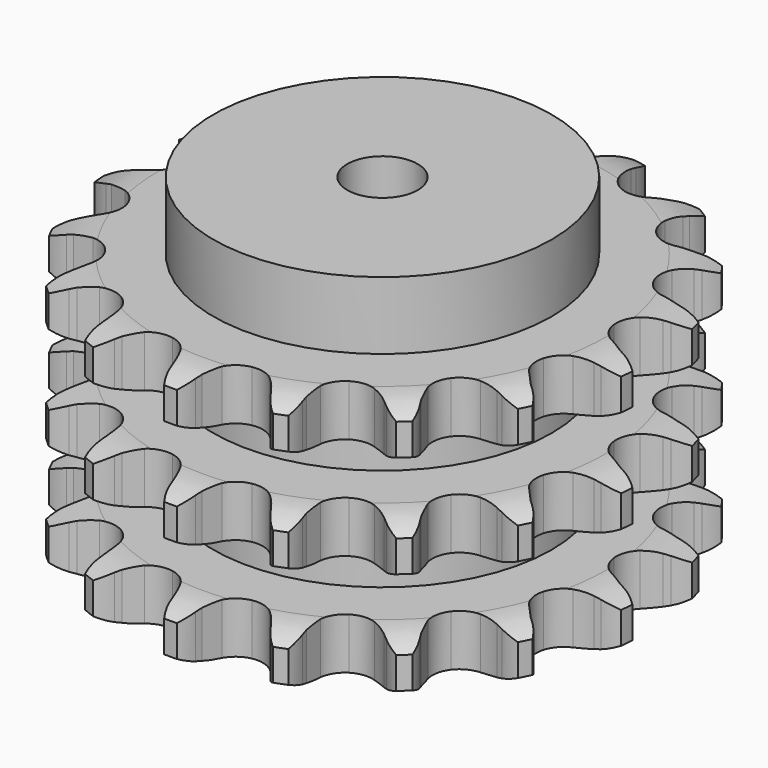
from build123d import *

# Parameters (mm, degrees)
PAD_DEPTH         = 91
SKETCH001_R       = 60
PAD001_DEPTH      = 115
SKETCH002_R       = 12.5
POCKET_DEPTH      = 0.001
POCKET_DEPTH_BACK = 115.001


with BuildPart() as part:
    # Sprocket → Pad (new body)
    with BuildSketch(Plane.XY):
        with BuildLine():
            ThreePointArc((-17.737635, 94.887966), (-14.206325, 91.840416), (-11.714917, 87.896992))
            Line((-11.714917, 87.896992), (-10.811214, 85.850299))
            ThreePointArc((-10.811214, 85.850299), (-9.33963, 83.023412), (-7.51836, 80.408107))
            ThreePointArc((-7.51836, 80.408107), (-4.173112, 77.73735), (0, 76.78406))
            ThreePointArc((0, 76.78406), (4.173112, 77.73735), (7.51836, 80.408107))
            ThreePointArc((7.51836, 80.408107), (9.33963, 83.023412), (10.811214, 85.850299))
            Line((10.811214, 85.850299), (11.714917, 87.896992))
            ThreePointArc((11.714917, 87.896992), (14.206325, 91.840416), (17.737635, 94.887966))
            ThreePointArc((17.737635, 94.887966), (19.929581, 90.770554), (20.828221, 86.19342))
            Line((20.828221, 86.19342), (20.931548, 83.958481))
            ThreePointArc((20.931548, 83.958481), (21.28257, 80.79089), (22.036097, 77.694272))
            ThreePointArc((22.036097, 77.694272), (24.190659, 73.995422), (27.737602, 71.599003))
            ThreePointArc((27.737602, 71.599003), (31.973281, 70.980418), (36.05742, 72.262382))
            Line((36.05742, 72.262382), (41.093862, 76.147559))
            ThreePointArc((41.093862, 76.147559), (41.867064, 76.956386), (42.675891, 77.729588))
            ThreePointArc((42.675891, 77.729588), (46.423588, 80.506721), (50.817339, 82.07282))
            ThreePointArc((50.817339, 82.07282), (51.373887, 77.441626), (50.558392, 72.84895))
            Line((50.558392, 72.84895), (49.847389, 70.727604))
            ThreePointArc((49.847389, 70.727604), (49.030441, 67.64711), (48.614457, 64.487394))
            ThreePointArc((48.614457, 64.487394), (49.287347, 60.260002), (51.729086, 56.744105))
            ThreePointArc((51.729086, 56.744105), (55.455281, 54.637188), (59.726726, 54.357222))
            Line((59.726726, 54.357222), (65.826556, 56.160669))
            ThreePointArc((65.826556, 56.160669), (66.839727, 56.635565), (67.873249, 57.064372))
            ThreePointArc((67.873249, 57.064372), (72.371089, 58.300147), (77.033879, 58.173285))
            ThreePointArc((77.033879, 58.173285), (75.879865, 53.653777), (73.460372, 49.665825))
            Line((73.460372, 49.665825), (72.031063, 47.944573))
            ThreePointArc((72.031063, 47.944573), (70.15648, 45.367213), (68.627165, 42.571137))
            ThreePointArc((68.627165, 42.571137), (67.727506, 38.386135), (68.734271, 34.2256))
            ThreePointArc((68.734271, 34.2256), (71.447738, 30.914902), (75.329607, 29.110818))
            Line((75.329607, 29.110818), (81.669009, 28.588969))
            ThreePointArc((81.669009, 28.588969), (82.785315, 28.665797), (83.903948, 28.692297))
            ThreePointArc((83.903948, 28.692297), (88.544473, 28.219816), (92.846568, 26.417126))
            ThreePointArc((92.846568, 26.417126), (90.137847, 22.619688), (86.441122, 19.775055))
            Line((86.441122, 19.775055), (84.486544, 18.686362))
            ThreePointArc((84.486544, 18.686362), (81.807497, 16.960223), (79.371394, 14.905412))
            ThreePointArc((79.371394, 14.905412), (77.02069, 11.328008), (76.456512, 7.084739))
            ThreePointArc((76.456512, 7.084739), (77.790782, 3.017388), (80.758807, -0.067163))
            Line((80.758807, -0.067163), (86.48161, -2.843829))
            ThreePointArc((86.48161, -2.843829), (87.550288, -3.175445), (88.602955, -3.554832))
            ThreePointArc((88.602955, -3.554832), (92.759435, -5.671759), (96.119813, -8.906812))
            ThreePointArc((96.119813, -8.906812), (92.222213, -11.469315), (87.74752, -12.786446))
            Line((87.74752, -12.786446), (85.531648, -13.095547))
            ThreePointArc((85.531648, -13.095547), (82.409958, -13.73734), (79.396076, -14.773372))
            ThreePointArc((79.396076, -14.773372), (75.911803, -17.26003), (73.852877, -21.012955))
            ThreePointArc((73.852877, -21.012955), (73.62775, -25.287642), (75.281083, -29.236074))
            Line((75.281083, -29.236074), (79.61439, -33.892553))
            ThreePointArc((79.61439, -33.892553), (80.491109, -34.587827), (81.335641, -35.321862))
            ThreePointArc((81.335641, -35.321862), (84.446722, -38.797331), (86.411544, -43.027836))
            ThreePointArc((86.411544, -43.027836), (81.851458, -44.009324), (77.203129, -43.621066))
            Line((77.203129, -43.621066), (75.02523, -43.108829))
            ThreePointArc((75.02523, -43.108829), (71.882498, -42.579598), (68.697879, -42.45693))
            ThreePointArc((68.697879, -42.45693), (64.550606, -43.517004), (61.275002, -46.272734))
            ThreePointArc((61.275002, -46.272734), (59.520883, -50.177435), (59.636231, -54.456491))
            Line((59.636231, -54.456491), (61.994805, -60.363899))
            ThreePointArc((61.994805, -60.363899), (62.56116, -61.32893), (63.083499, -62.318478))
            ThreePointArc((63.083499, -62.318478), (64.729011, -66.683108), (65.032918, -71.337713))
            ThreePointArc((65.032918, -71.337713), (60.42621, -70.605629), (56.232027, -68.564419))
            Line((56.232027, -68.564419), (54.386238, -67.300024))
            ThreePointArc((54.386238, -67.300024), (51.646908, -65.671246), (48.721652, -64.406444))
            ThreePointArc((48.721652, -64.406444), (44.471493, -63.896767), (40.421599, -65.283123))
            ThreePointArc((40.421599, -65.283123), (37.37539, -68.290487), (35.937176, -72.322257))
            Line((35.937176, -72.322257), (36.002479, -78.682766))
            ThreePointArc((36.002479, -78.682766), (36.181979, -79.787222), (36.31158, -80.898638))
            ThreePointArc((36.31158, -80.898638), (36.269288, -85.562962), (34.871236, -90.013036))
            ThreePointArc((34.871236, -90.013036), (30.840067, -87.666253), (27.666479, -84.247768))
            Line((27.666479, -84.247768), (26.402084, -82.401979))
            ThreePointArc((26.402084, -82.401979), (24.436117, -79.893629), (22.165296, -77.657512))
            ThreePointArc((22.165296, -77.657512), (18.386257, -75.646917), (14.109034, -75.476665))
            ThreePointArc((14.109034, -75.476665), (10.182144, -77.180531), (7.384606, -80.420501))
            Line((7.384606, -80.420501), (5.147818, -86.37509))
            ThreePointArc((5.147818, -86.37509), (4.916222, -87.469807), (4.635581, -88.552989))
            ThreePointArc((4.635581, -88.552989), (2.911197, -92.887064), (0, -96.5316))
            ThreePointArc((0, -96.5316), (-2.911197, -92.887064), (-4.635581, -88.552989))
            Line((-4.635581, -88.552989), (-5.147818, -86.37509))
            ThreePointArc((-5.147818, -86.37509), (-6.074907, -83.325934), (-7.384606, -80.420501))
            ThreePointArc((-7.384606, -80.420501), (-10.182144, -77.180531), (-14.109034, -75.476665))
            ThreePointArc((-14.109034, -75.476665), (-18.386257, -75.646917), (-22.165296, -77.657512))
            Line((-22.165296, -77.657512), (-26.402084, -82.401979))
            ThreePointArc((-26.402084, -82.401979), (-27.013498, -83.33911), (-27.666479, -84.247768))
            ThreePointArc((-27.666479, -84.247768), (-30.840067, -87.666253), (-34.871236, -90.013036))
            ThreePointArc((-34.871236, -90.013036), (-36.269288, -85.562962), (-36.31158, -80.898638))
            Line((-36.31158, -80.898638), (-36.002479, -78.682766))
            ThreePointArc((-36.002479, -78.682766), (-35.765481, -75.50461), (-35.937176, -72.322257))
            ThreePointArc((-35.937176, -72.322257), (-37.37539, -68.290487), (-40.421599, -65.283123))
            ThreePointArc((-40.421599, -65.283123), (-44.471493, -63.896767), (-48.721652, -64.406444))
            Line((-48.721652, -64.406444), (-54.386238, -67.300024))
            ThreePointArc((-54.386238, -67.300024), (-55.294896, -67.953005), (-56.232027, -68.564419))
            ThreePointArc((-56.232027, -68.564419), (-60.42621, -70.605629), (-65.032918, -71.337713))
            ThreePointArc((-65.032918, -71.337713), (-64.729011, -66.683108), (-63.083499, -62.318478))
            Line((-63.083499, -62.318478), (-61.994805, -60.363899))
            ThreePointArc((-61.994805, -60.363899), (-60.625729, -57.48597), (-59.636231, -54.456491))
            ThreePointArc((-59.636231, -54.456491), (-59.520883, -50.177435), (-61.275002, -46.272734))
            ThreePointArc((-61.275002, -46.272734), (-64.550606, -43.517004), (-68.697879, -42.45693))
            Line((-68.697879, -42.45693), (-75.02523, -43.108829))
            ThreePointArc((-75.02523, -43.108829), (-76.108412, -43.389469), (-77.203129, -43.621066))
            ThreePointArc((-77.203129, -43.621066), (-81.851458, -44.009324), (-86.411544, -43.027836))
            ThreePointArc((-86.411544, -43.027836), (-84.446722, -38.797331), (-81.335641, -35.321862))
            Line((-81.335641, -35.321862), (-79.61439, -33.892553))
            ThreePointArc((-79.61439, -33.892553), (-77.298136, -31.703531), (-75.281083, -29.236074))
            ThreePointArc((-75.281083, -29.236074), (-73.62775, -25.287642), (-73.852877, -21.012955))
            ThreePointArc((-73.852877, -21.012955), (-75.911803, -17.26003), (-79.396076, -14.773372))
            Line((-79.396076, -14.773372), (-85.531648, -13.095547))
            ThreePointArc((-85.531648, -13.095547), (-86.643064, -12.965946), (-87.74752, -12.786446))
            ThreePointArc((-87.74752, -12.786446), (-92.222213, -11.469315), (-96.119813, -8.906812))
            ThreePointArc((-96.119813, -8.906812), (-92.759435, -5.671759), (-88.602955, -3.554832))
            Line((-88.602955, -3.554832), (-86.48161, -2.843829))
            ThreePointArc((-86.48161, -2.843829), (-83.531002, -1.639355), (-80.758807, -0.067163))
            ThreePointArc((-80.758807, -0.067163), (-77.790782, 3.017388), (-76.456512, 7.084739))
            ThreePointArc((-76.456512, 7.084739), (-77.02069, 11.328008), (-79.371394, 14.905412))
            Line((-79.371394, 14.905412), (-84.486544, 18.686362))
            ThreePointArc((-84.486544, 18.686362), (-85.476091, 19.208701), (-86.441122, 19.775055))
            ThreePointArc((-86.441122, 19.775055), (-90.137847, 22.619688), (-92.846568, 26.417126))
            ThreePointArc((-92.846568, 26.417126), (-88.544473, 28.219816), (-83.903948, 28.692297))
            Line((-83.903948, 28.692297), (-81.669009, 28.588969))
            ThreePointArc((-81.669009, 28.588969), (-78.482543, 28.646225), (-75.329607, 29.110818))
            ThreePointArc((-75.329607, 29.110818), (-71.447738, 30.914902), (-68.734271, 34.2256))
            ThreePointArc((-68.734271, 34.2256), (-67.727506, 38.386135), (-68.627165, 42.571137))
            Line((-68.627165, 42.571137), (-72.031063, 47.944573))
            ThreePointArc((-72.031063, 47.944573), (-72.765098, 48.789106), (-73.460372, 49.665825))
            ThreePointArc((-73.460372, 49.665825), (-75.879865, 53.653777), (-77.033879, 58.173285))
            ThreePointArc((-77.033879, 58.173285), (-72.371089, 58.300147), (-67.873249, 57.064372))
            Line((-67.873249, 57.064372), (-65.826556, 56.160669))
            ThreePointArc((-65.826556, 56.160669), (-62.834581, 55.062974), (-59.726726, 54.357222))
            ThreePointArc((-59.726726, 54.357222), (-55.455281, 54.637188), (-51.729086, 56.744105))
            ThreePointArc((-51.729086, 56.744105), (-49.287347, 60.260002), (-48.614457, 64.487394))
            Line((-48.614457, 64.487394), (-49.847389, 70.727604))
            ThreePointArc((-49.847389, 70.727604), (-50.226776, 71.780271), (-50.558392, 72.84895))
            ThreePointArc((-50.558392, 72.84895), (-51.373887, 77.441626), (-50.817339, 82.07282))
            ThreePointArc((-50.817339, 82.07282), (-46.423588, 80.506721), (-42.675891, 77.729588))
            Line((-42.675891, 77.729588), (-41.093862, 76.147559))
            ThreePointArc((-41.093862, 76.147559), (-38.700462, 74.043163), (-36.05742, 72.262382))
            ThreePointArc((-36.05742, 72.262382), (-31.973281, 70.980418), (-27.737602, 71.599003))
            ThreePointArc((-27.737602, 71.599003), (-24.190659, 73.995422), (-22.036097, 77.694272))
            Line((-22.036097, 77.694272), (-20.931548, 83.958481))
            ThreePointArc((-20.931548, 83.958481), (-20.905049, 85.077114), (-20.828221, 86.19342))
            ThreePointArc((-20.828221, 86.19342), (-19.929581, 90.770554), (-17.737635, 94.887966))
        make_face()
    extrude(amount=PAD_DEPTH)

    # Sketch → Groove (revolve, cut)
    with BuildSketch(Plane.XZ):
        with BuildLine():
            ThreePointArc((79.398368, 0), (86.881683, 0.887302), (93.95, 3.5))
            Line((93.95, 3.5), (93.95, 14.7))
            ThreePointArc((93.95, 14.7), (86.881683, 17.312698), (79.398368, 18.2))
            Line((60, 18.2), (79.398368, 18.2))
            Line((60, 18.2), (60, 36.4))
            Line((60, 36.4), (79.398368, 36.4))
            ThreePointArc((79.398368, 36.4), (86.881683, 37.287302), (93.95, 39.9))
            Line((93.95, 51.1), (93.95, 39.9))
            ThreePointArc((93.95, 51.1), (86.881683, 53.712698), (79.398368, 54.6))
            Line((60, 54.6), (79.398368, 54.6))
            Line((60, 72.8), (60, 54.6))
            Line((79.398368, 72.8), (60, 72.8))
            ThreePointArc((79.398368, 72.8), (86.881683, 73.687302), (93.95, 76.3))
            Line((93.95, 76.3), (93.95, 87.5))
            ThreePointArc((93.95, 87.5), (86.881683, 90.112698), (79.398368, 91))
            Line((79.398368, 91), (103.95, 91))
            Line((103.95, 91), (103.95, 0))
            Line((79.398368, 0), (103.95, 0))
        make_face()
    revolve(axis=Axis((0, 0, 0), (0, 0, 1)), mode=Mode.SUBTRACT)

    # Sketch001 → Pad001 (join)
    with BuildSketch(Plane.XY):
        Circle(SKETCH001_R)
    extrude(amount=PAD001_DEPTH)

    # Sketch002 → Pocket (cut, two sides)
    with BuildSketch(Plane.XY) as pocket_sk:
        Circle(SKETCH002_R)
    extrude(amount=-POCKET_DEPTH, mode=Mode.SUBTRACT)
    extrude(pocket_sk.sketch, amount=POCKET_DEPTH_BACK, mode=Mode.SUBTRACT)


solid = part.part
